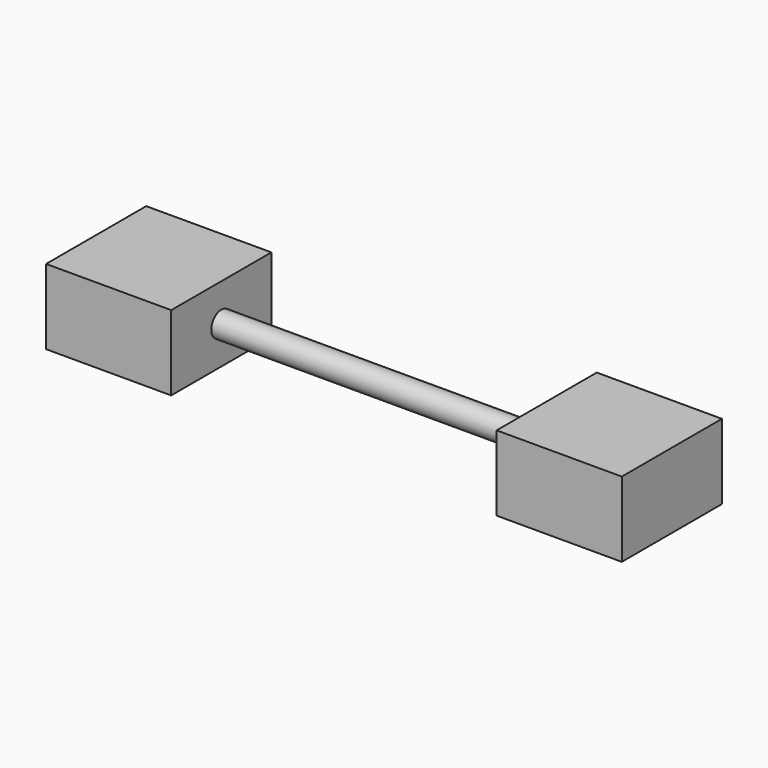
from build123d import *

# Parameters (mm, degrees)
F0_W     = 127
F0_H     = 127
F1_DEPTH = 76.2
F3_DEPTH = 330.2
F4_W     = 127
F4_H     = 76.2
F4_R     = 12.7
F5_DEPTH = 127


with BuildPart() as f1:
    # F0 (on Top) → F1 (new body)
    with BuildSketch(Plane.XY):
        with Locations((-16.172883, 4.04909)):
            Rectangle(F0_W, F0_H)
    extrude(amount=F1_DEPTH)

    # F2 (on face) → F3 (join)
    with BuildSketch(Plane.YZ.offset(47.327117)):
        with BuildLine():
            ThreePointArc((-8.65091, 38.1), (4.04909, 25.4), (16.74909, 38.1))
            ThreePointArc((16.74909, 38.1), (4.04909, 50.8), (-8.65091, 38.1))
        make_face()
    extrude(amount=F3_DEPTH)

    # F4 (on face) → F5 (join)
    with BuildSketch(Plane.YZ.offset(377.527117)):
        with Locations((4.04909, 38.1)):
            Rectangle(F4_W, F4_H)
        with Locations((4.04909, 38.1)):
            Circle(F4_R, mode=Mode.SUBTRACT)
        with Locations((4.04909, 38.1)):
            Circle(F4_R)
    extrude(amount=F5_DEPTH)


solid = f1.part
